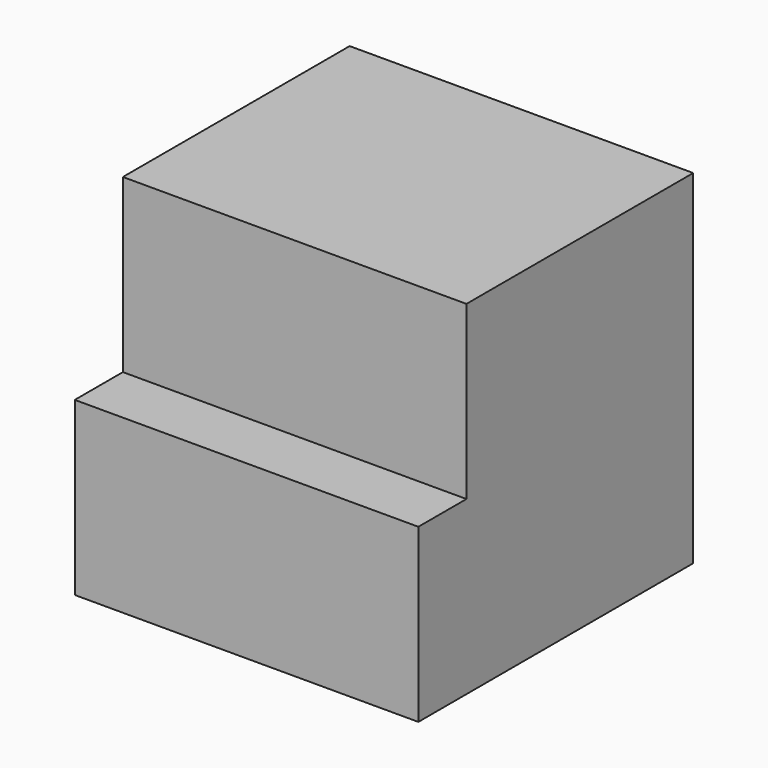
from build123d import *

# Parameters (mm, degrees)
F0_W          = 127
F0_H          = 127
F1_DEPTH      = 63.5
F1_DEPTH_BACK = 63.5
F2_W          = 127
F2_H          = 63.5
F3_DEPTH      = 22.225


with BuildPart() as f1:
    # F0 (on Front) → F1 (new body, two sides)
    with BuildSketch(Plane.XZ) as f1_sk:
        Rectangle(F0_W, F0_H)
    extrude(amount=F1_DEPTH)
    extrude(f1_sk.sketch, amount=-F1_DEPTH_BACK)

    # F2 (on face) → F3 (cut, symmetric)
    with BuildSketch(Plane.XZ.offset(63.5)):
        with Locations((0, 31.75)):
            Rectangle(F2_W, F2_H)
    extrude(amount=F3_DEPTH, both=True, mode=Mode.SUBTRACT)


solid = f1.part
